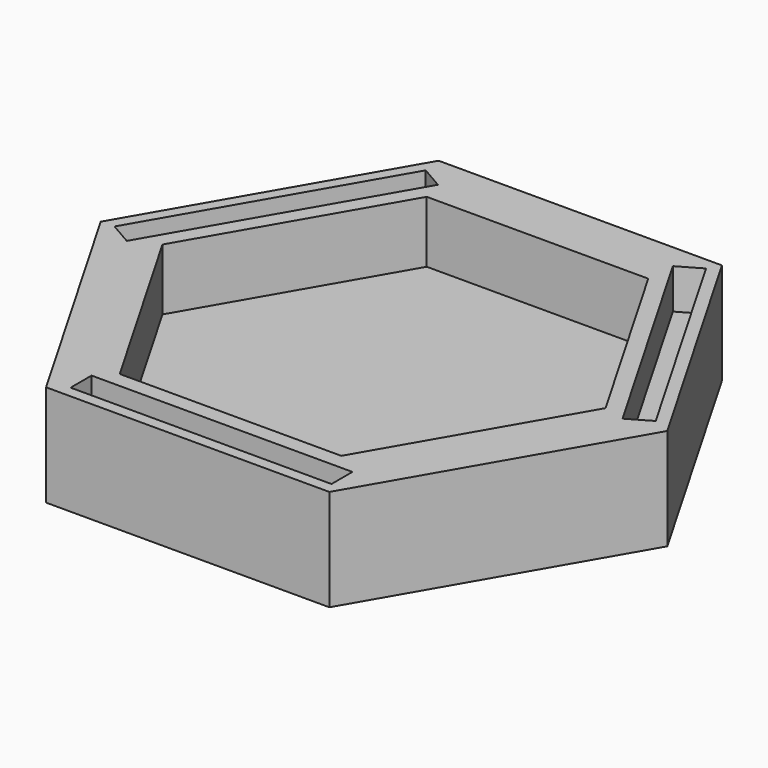
from build123d import *

# Parameters (mm, degrees)
F1_DEPTH = 25.4
F2_W     = 65.248069
F2_H     = 6.554596
F3_DEPTH = 10
F5_DEPTH = 10


with BuildPart() as f1:
    # F0 (on Top) → F1 (new body)
    with BuildSketch(Plane.XY):
        Polygon((35.426364, 61.360262), (-35.426364, 61.360262), (-70.852728, 0), (-35.426364, -61.360262), (35.426364, -61.360262), (70.852728, 0), align=None)
        Polygon((-55.406566, 0), (-27.703283, 47.983494), (27.703283, 47.983494), (55.406566, 0), (27.703283, -47.983494), (-27.703283, -47.983494), align=None, mode=Mode.SUBTRACT)
    extrude(amount=F1_DEPTH)

    # F2 (on face) → F3 (cut)
    with BuildSketch(Plane.XY.offset(25.4)):
        Polygon((66.450043, 1.882416), (33.826009, 58.388901), (28.149562, 55.111603), (60.773597, -1.394882), align=None)
        with Locations((1.029233, -55.211335)):
            Rectangle(F2_W, F2_H)
        Polygon((-34.855242, 56.606218), (-67.479276, 0.099733), (-61.802829, -3.177565), (-29.178795, 53.32892), align=None)
    extrude(amount=-F3_DEPTH, mode=Mode.SUBTRACT)

    # F4 (on face) → F5 (join)
    with BuildSketch(Plane(origin=(0, 0, 0), x_dir=(1, 0, 0), z_dir=(0, 0, -1))):
        Polygon((27.703283, 47.983494), (-27.703283, 47.983494), (-28.828688, 46.034235), (-55.406566, 0), (-27.703283, -47.983494), (27.703283, -47.983494), (55.406566, 0), align=None)
    extrude(amount=-F5_DEPTH)


solid = f1.part
